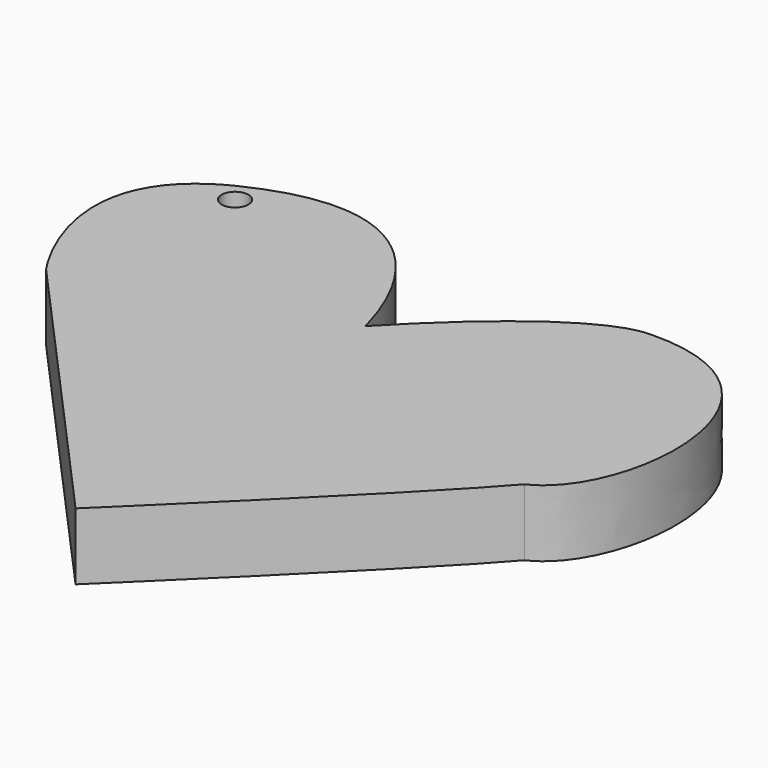
from build123d import *

# Parameters (mm, degrees)
CYLINDER_R     = 2
CYLINDER_DEPTH = 12
EXTRUDE_DEPTH  = 10


with BuildPart() as cilindro:
    # Cylinder → Cylinder (new body)
    with BuildSketch(Plane(origin=(59.98, -74.8, 0), x_dir=(1, 0, 0), z_dir=(0, 0, 1))):
        Circle(CYLINDER_R)
    extrude(amount=CYLINDER_DEPTH)


with BuildPart() as cut:
    # path2246 → Extrude (new body)
    with BuildSketch(Plane(origin=(94.341844, -105.754461, 0), x_dir=(0, -1, 0), z_dir=(0, 0, -1))):
        with BuildLine():
            add(Edge.make_bspline(
                [(41.622189, 0.139513), (-3.420731, 40.581559)],
                knots=[0, 0, 60.534484, 60.534484], degree=1))
            add(Edge.make_bspline(
                [(-3.420731, 40.581559), (-3.420731, 40.581559), (-24.478139, 55.667165), (-33.827718, 36.291336)],
                knots=[0, 0, 0, 0, 1, 1, 1, 1], degree=3))
            add(Edge.make_bspline(
                [(-33.827718, 36.291336), (-46.948673, 9.099806), (-15.449255, 2.542274), (-15.449255, 2.542274)],
                knots=[0, 0, 0, 0, 1, 1, 1, 1], degree=3))
            add(Edge.make_bspline(
                [(-15.449255, 2.542274), (-15.449255, 2.542274), (-34.638948, -15.120666), (-34.659558, -24.840656)],
                knots=[0, 0, 0, 0, 1, 1, 1, 1], degree=3))
            add(Edge.make_bspline(
                [(-34.659558, -24.840656), (-35.31742, -50.902936), (-1.036181, -48.507456), (4.117339, -36.979596)],
                knots=[0, 0, 0, 0, 1, 1, 1, 1], degree=3))
            add(Edge.make_bspline(
                [(4.117339, -36.979596), (13.587039, -28.871746), (41.622189, 0.139513), (41.622189, 0.139513)],
                knots=[0, 0, 0, 0, 1, 1, 1, 1], degree=3))
        make_face()
    extrude(amount=-EXTRUDE_DEPTH)

    # Cut: cut Cilindro
    add(cilindro.part, mode=Mode.SUBTRACT)


solid = cut.part
